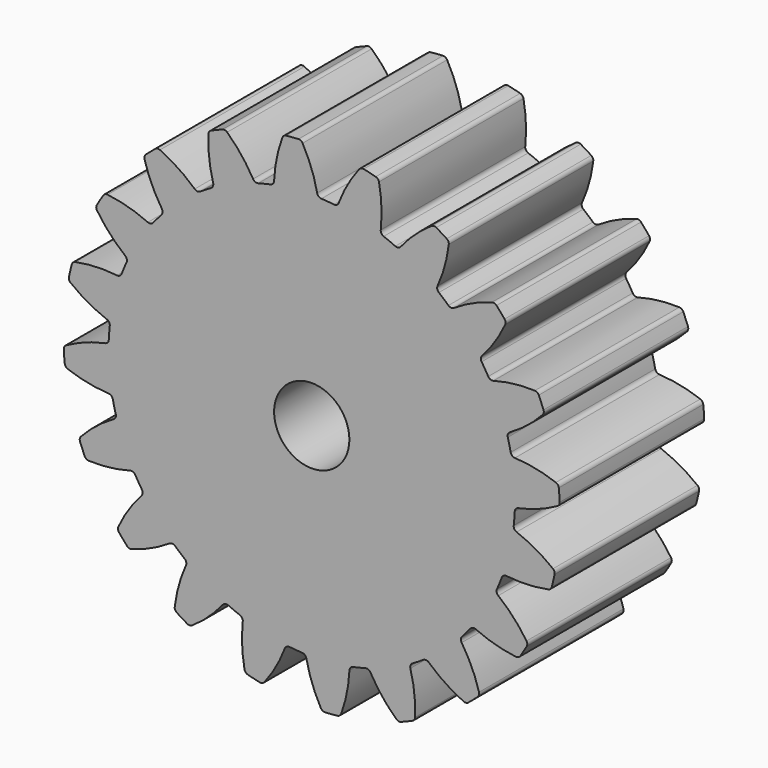
from build123d import *

# Parameters (mm, degrees)
F1_DEPTH = 4.8
F2_R     = 1
F3_DEPTH = 25


with BuildPart() as f1:
    # F0 (on Front) → F1 (new body)
    with BuildSketch(Plane.XZ):
        with BuildLine():
            ThreePointArc((0.144161, 5.489757), (-0.009039, 6.024555), (-0.242805, 6.529365))
            ThreePointArc((-0.242805, 6.529365), (-0.289621, 6.57581), (-0.353909, 6.590504))
            ThreePointArc((-0.353909, 6.590504), (-0.51783, 6.579654), (-0.68143, 6.564728))
            ThreePointArc((-0.68143, 6.564728), (-0.742628, 6.540158), (-0.781602, 6.486961))
            ThreePointArc((-0.781602, 6.486961), (-0.933521, 5.951797), (-1.001174, 5.399617))
            ThreePointArc((-1.001174, 5.399617), (-1.029694, 5.327161), (-1.096684, 5.287465))
            ThreePointArc((-1.096684, 5.287465), (-1.260605, 5.250798), (-1.423306, 5.20905))
            ThreePointArc((-1.423306, 5.20905), (-2.066491, 4.988949), (-2.676925, 4.689784))
            ThreePointArc((-2.676925, 4.689784), (-2.821492, 4.604257), (-2.96333, 4.514275))
            ThreePointArc((-2.96333, 4.514275), (-3.507019, 4.106192), (-3.99513, 3.633034))
            ThreePointArc((-3.99513, 3.633034), (-4.106192, 3.507019), (-4.213282, 3.377611))
            ThreePointArc((-4.213282, 3.377611), (-4.604257, 2.821492), (-4.922264, 2.220658))
            ThreePointArc((-4.922264, 2.220658), (-4.988949, 2.066491), (-5.050808, 1.910324))
            ThreePointArc((-5.050808, 1.910324), (-5.250798, 1.260605), (-5.367572, 0.590908))
            ThreePointArc((-5.367572, 0.590908), (-5.383354, 0.423679), (-5.393927, 0.25604))
            ThreePointArc((-5.393927, 0.25604), (-5.383354, -0.423679), (-5.287465, -1.096684))
            ThreePointArc((-5.287465, -1.096684), (-5.250798, -1.260605), (-5.20905, -1.423306))
            ThreePointArc((-5.20905, -1.423306), (-4.988949, -2.066491), (-4.689784, -2.676925))
            ThreePointArc((-4.689784, -2.676925), (-4.604257, -2.821492), (-4.514275, -2.96333))
            ThreePointArc((-4.514275, -2.96333), (-4.106192, -3.507019), (-3.633034, -3.99513))
            ThreePointArc((-3.633034, -3.99513), (-3.507019, -4.106192), (-3.377611, -4.213282))
            ThreePointArc((-3.377611, -4.213282), (-2.821492, -4.604257), (-2.220658, -4.922264))
            ThreePointArc((-2.220658, -4.922264), (-2.066491, -4.988949), (-1.910324, -5.050808))
            ThreePointArc((-1.910324, -5.050808), (-1.260605, -5.250798), (-0.590908, -5.367572))
            ThreePointArc((-0.590908, -5.367572), (-0.423679, -5.383354), (-0.25604, -5.393927))
            ThreePointArc((-0.25604, -5.393927), (0.423679, -5.383354), (1.096684, -5.287465))
            ThreePointArc((1.096684, -5.287465), (1.260605, -5.250798), (1.423306, -5.20905))
            ThreePointArc((1.423306, -5.20905), (2.066491, -4.988949), (2.676925, -4.689784))
            ThreePointArc((2.676925, -4.689784), (2.821492, -4.604257), (2.96333, -4.514275))
            ThreePointArc((2.96333, -4.514275), (3.507019, -4.106192), (3.99513, -3.633034))
            ThreePointArc((3.99513, -3.633034), (4.106192, -3.507019), (4.213282, -3.377611))
            ThreePointArc((4.213282, -3.377611), (4.604257, -2.821492), (4.922264, -2.220658))
            ThreePointArc((4.922264, -2.220658), (4.988949, -2.066491), (5.050808, -1.910324))
            ThreePointArc((5.050808, -1.910324), (5.250798, -1.260605), (5.367572, -0.590908))
            ThreePointArc((5.367572, -0.590908), (5.383354, -0.423679), (5.393927, -0.25604))
            ThreePointArc((5.393927, -0.25604), (5.383354, 0.423679), (5.287465, 1.096684))
            ThreePointArc((5.287465, 1.096684), (5.250798, 1.260605), (5.20905, 1.423306))
            ThreePointArc((5.20905, 1.423306), (4.988949, 2.066491), (4.689784, 2.676925))
            ThreePointArc((4.689784, 2.676925), (4.604257, 2.821492), (4.514275, 2.96333))
            ThreePointArc((4.514275, 2.96333), (4.106192, 3.507019), (3.633034, 3.99513))
            ThreePointArc((3.633034, 3.99513), (3.507019, 4.106192), (3.377611, 4.213282))
            ThreePointArc((3.377611, 4.213282), (2.821492, 4.604257), (2.220658, 4.922264))
            ThreePointArc((2.220658, 4.922264), (2.066491, 4.988949), (1.910324, 5.050808))
            ThreePointArc((1.910324, 5.050808), (1.260605, 5.250798), (0.590908, 5.367572))
            ThreePointArc((0.590908, 5.367572), (0.423679, 5.383354), (0.25604, 5.393927))
            ThreePointArc((0.25604, 5.393927), (0.183666, 5.422654), (0.144161, 5.489757))
        make_face()
        with BuildLine():
            ThreePointArc((0.716401, 5.444721), (0.666886, 5.384624), (0.590908, 5.367572))
            ThreePointArc((0.590908, 5.367572), (1.260605, 5.250798), (1.910324, 5.050808))
            ThreePointArc((1.910324, 5.050808), (1.850369, 5.100495), (1.833534, 5.176521))
            ThreePointArc((1.833534, 5.176521), (1.853094, 5.732486), (1.786764, 6.284826))
            ThreePointArc((1.786764, 6.284826), (1.756591, 6.343465), (1.69999, 6.377306))
            ThreePointArc((1.69999, 6.377306), (1.540739, 6.417641), (1.380534, 6.454001))
            ThreePointArc((1.380534, 6.454001), (1.314739, 6.449544), (1.261233, 6.410995))
            ThreePointArc((1.261233, 6.410995), (0.951375, 5.948969), (0.716401, 5.444721))
        make_face()
        with BuildLine():
            ThreePointArc((2.363849, 4.956857), (2.298186, 4.915003), (2.220658, 4.922264))
            ThreePointArc((2.220658, 4.922264), (2.821492, 4.604257), (3.377611, 4.213282))
            ThreePointArc((3.377611, 4.213282), (3.335945, 4.279064), (3.343427, 4.356571))
            ThreePointArc((3.343427, 4.356571), (3.533832, 4.87928), (3.641431, 5.425084))
            ThreePointArc((3.641431, 5.425084), (3.630856, 5.490177), (3.587483, 5.539853))
            ThreePointArc((3.587483, 5.539853), (3.448491, 5.627425), (3.307362, 5.711511))
            ThreePointArc((3.307362, 5.711511), (3.24341, 5.727605), (3.18061, 5.707476))
            ThreePointArc((3.18061, 5.707476), (2.743144, 5.363815), (2.363849, 4.956857))
        make_face()
        with BuildLine():
            ThreePointArc((-2.676925, 4.689784), (-2.066491, 4.988949), (-1.423306, 5.20905))
            ThreePointArc((-1.423306, 5.20905), (-1.501016, 5.214007), (-1.559323, 5.265618))
            ThreePointArc((-1.559323, 5.265618), (-1.870286, 5.7269), (-2.248606, 6.134764))
            ThreePointArc((-2.248606, 6.134764), (-2.307483, 6.164469), (-2.373166, 6.158578))
            ThreePointArc((-2.373166, 6.158578), (-2.525711, 6.097605), (-2.676691, 6.032854))
            ThreePointArc((-2.676691, 6.032854), (-2.727301, 5.990575), (-2.747929, 5.927938))
            ThreePointArc((-2.747929, 5.927938), (-2.727037, 5.372022), (-2.620746, 4.825962))
            ThreePointArc((-2.620746, 4.825962), (-2.625481, 4.748238), (-2.676925, 4.689784))
        make_face()
        with BuildLine():
            ThreePointArc((3.779907, 3.983782), (3.704525, 3.964267), (3.633034, 3.99513))
            ThreePointArc((3.633034, 3.99513), (4.106192, 3.507019), (4.514275, 2.96333))
            ThreePointArc((4.514275, 2.96333), (4.494976, 3.038768), (4.526043, 3.110169))
            ThreePointArc((4.526043, 3.110169), (4.868655, 3.548457), (5.13965, 4.034298))
            ThreePointArc((5.13965, 4.034298), (5.149707, 4.099473), (5.123807, 4.16012))
            ThreePointArc((5.123807, 4.16012), (5.018679, 4.286357), (4.910442, 4.409939))
            ThreePointArc((4.910442, 4.409939), (4.854593, 4.445007), (4.788647, 4.445269))
            ThreePointArc((4.788647, 4.445269), (4.266395, 4.253613), (3.779907, 3.983782))
        make_face()
        with BuildLine():
            ThreePointArc((-3.99513, 3.633034), (-3.507019, 4.106192), (-2.96333, 4.514275))
            ThreePointArc((-2.96333, 4.514275), (-3.038768, 4.494976), (-3.110169, 4.526043))
            ThreePointArc((-3.110169, 4.526043), (-3.548457, 4.868655), (-4.034298, 5.13965))
            ThreePointArc((-4.034298, 5.13965), (-4.099473, 5.149707), (-4.16012, 5.123807))
            ThreePointArc((-4.16012, 5.123807), (-4.286357, 5.018679), (-4.409939, 4.910442))
            ThreePointArc((-4.409939, 4.910442), (-4.445007, 4.854593), (-4.445269, 4.788647))
            ThreePointArc((-4.445269, 4.788647), (-4.253613, 4.266395), (-3.983782, 3.779907))
            ThreePointArc((-3.983782, 3.779907), (-3.964267, 3.704525), (-3.99513, 3.633034))
        make_face()
        with BuildLine():
            ThreePointArc((4.825962, 2.620746), (4.748238, 2.625481), (4.689784, 2.676925))
            ThreePointArc((4.689784, 2.676925), (4.988949, 2.066491), (5.20905, 1.423306))
            ThreePointArc((5.20905, 1.423306), (5.214007, 1.501016), (5.265618, 1.559323))
            ThreePointArc((5.265618, 1.559323), (5.7269, 1.870286), (6.134764, 2.248606))
            ThreePointArc((6.134764, 2.248606), (6.164469, 2.307483), (6.158578, 2.373166))
            ThreePointArc((6.158578, 2.373166), (6.097605, 2.525711), (6.032854, 2.676691))
            ThreePointArc((6.032854, 2.676691), (5.990575, 2.727301), (5.927938, 2.747929))
            ThreePointArc((5.927938, 2.747929), (5.372022, 2.727037), (4.825962, 2.620746))
        make_face()
        with BuildLine():
            ThreePointArc((-4.922264, 2.220658), (-4.604257, 2.821492), (-4.213282, 3.377611))
            ThreePointArc((-4.213282, 3.377611), (-4.279064, 3.335945), (-4.356571, 3.343427))
            ThreePointArc((-4.356571, 3.343427), (-4.87928, 3.533832), (-5.425084, 3.641431))
            ThreePointArc((-5.425084, 3.641431), (-5.490177, 3.630856), (-5.539853, 3.587483))
            ThreePointArc((-5.539853, 3.587483), (-5.627425, 3.448491), (-5.711511, 3.307362))
            ThreePointArc((-5.711511, 3.307362), (-5.727605, 3.24341), (-5.707476, 3.18061))
            ThreePointArc((-5.707476, 3.18061), (-5.363815, 2.743144), (-4.956857, 2.363849))
            ThreePointArc((-4.956857, 2.363849), (-4.915003, 2.298186), (-4.922264, 2.220658))
        make_face()
        with BuildLine():
            ThreePointArc((5.399617, 1.001174), (5.327161, 1.029694), (5.287465, 1.096684))
            ThreePointArc((5.287465, 1.096684), (5.383354, 0.423679), (5.393927, -0.25604))
            ThreePointArc((5.393927, -0.25604), (5.422654, -0.183666), (5.489757, -0.144161))
            ThreePointArc((5.489757, -0.144161), (6.024555, 0.009039), (6.529365, 0.242805))
            ThreePointArc((6.529365, 0.242805), (6.57581, 0.289621), (6.590504, 0.353909))
            ThreePointArc((6.590504, 0.353909), (6.579654, 0.51783), (6.564728, 0.68143))
            ThreePointArc((6.564728, 0.68143), (6.540158, 0.742628), (6.486961, 0.781602))
            ThreePointArc((6.486961, 0.781602), (5.951797, 0.933521), (5.399617, 1.001174))
        make_face()
        with BuildLine():
            ThreePointArc((-5.367572, 0.590908), (-5.250798, 1.260605), (-5.050808, 1.910324))
            ThreePointArc((-5.050808, 1.910324), (-5.100495, 1.850369), (-5.176521, 1.833534))
            ThreePointArc((-5.176521, 1.833534), (-5.732486, 1.853094), (-6.284826, 1.786764))
            ThreePointArc((-6.284826, 1.786764), (-6.343465, 1.756591), (-6.377306, 1.69999))
            ThreePointArc((-6.377306, 1.69999), (-6.417641, 1.540739), (-6.454001, 1.380534))
            ThreePointArc((-6.454001, 1.380534), (-6.449544, 1.314739), (-6.410995, 1.261233))
            ThreePointArc((-6.410995, 1.261233), (-5.948969, 0.951375), (-5.444721, 0.716401))
            ThreePointArc((-5.444721, 0.716401), (-5.384624, 0.666886), (-5.367572, 0.590908))
        make_face()
        with BuildLine():
            ThreePointArc((5.444721, -0.716401), (5.384624, -0.666886), (5.367572, -0.590908))
            ThreePointArc((5.367572, -0.590908), (5.250798, -1.260605), (5.050808, -1.910324))
            ThreePointArc((5.050808, -1.910324), (5.100495, -1.850369), (5.176521, -1.833534))
            ThreePointArc((5.176521, -1.833534), (5.732486, -1.853094), (6.284826, -1.786764))
            ThreePointArc((6.284826, -1.786764), (6.343465, -1.756591), (6.377306, -1.69999))
            ThreePointArc((6.377306, -1.69999), (6.417641, -1.540739), (6.454001, -1.380534))
            ThreePointArc((6.454001, -1.380534), (6.449544, -1.314739), (6.410995, -1.261233))
            ThreePointArc((6.410995, -1.261233), (5.948969, -0.951375), (5.444721, -0.716401))
        make_face()
        with BuildLine():
            ThreePointArc((-5.287465, -1.096684), (-5.383354, -0.423679), (-5.393927, 0.25604))
            ThreePointArc((-5.393927, 0.25604), (-5.422654, 0.183666), (-5.489757, 0.144161))
            ThreePointArc((-5.489757, 0.144161), (-6.024555, -0.009039), (-6.529365, -0.242805))
            ThreePointArc((-6.529365, -0.242805), (-6.57581, -0.289621), (-6.590504, -0.353909))
            ThreePointArc((-6.590504, -0.353909), (-6.579654, -0.51783), (-6.564728, -0.68143))
            ThreePointArc((-6.564728, -0.68143), (-6.540158, -0.742628), (-6.486961, -0.781602))
            ThreePointArc((-6.486961, -0.781602), (-5.951797, -0.933521), (-5.399617, -1.001174))
            ThreePointArc((-5.399617, -1.001174), (-5.327161, -1.029694), (-5.287465, -1.096684))
        make_face()
        with BuildLine():
            ThreePointArc((4.956857, -2.363849), (4.915003, -2.298186), (4.922264, -2.220658))
            ThreePointArc((4.922264, -2.220658), (4.604257, -2.821492), (4.213282, -3.377611))
            ThreePointArc((4.213282, -3.377611), (4.279064, -3.335945), (4.356571, -3.343427))
            ThreePointArc((4.356571, -3.343427), (4.87928, -3.533832), (5.425084, -3.641431))
            ThreePointArc((5.425084, -3.641431), (5.490177, -3.630856), (5.539853, -3.587483))
            ThreePointArc((5.539853, -3.587483), (5.627425, -3.448491), (5.711511, -3.307362))
            ThreePointArc((5.711511, -3.307362), (5.727605, -3.24341), (5.707476, -3.18061))
            ThreePointArc((5.707476, -3.18061), (5.363815, -2.743144), (4.956857, -2.363849))
        make_face()
        with BuildLine():
            ThreePointArc((-4.689784, -2.676925), (-4.988949, -2.066491), (-5.20905, -1.423306))
            ThreePointArc((-5.20905, -1.423306), (-5.214007, -1.501016), (-5.265618, -1.559323))
            ThreePointArc((-5.265618, -1.559323), (-5.7269, -1.870286), (-6.134764, -2.248606))
            ThreePointArc((-6.134764, -2.248606), (-6.164469, -2.307483), (-6.158578, -2.373166))
            ThreePointArc((-6.158578, -2.373166), (-6.097605, -2.525711), (-6.032854, -2.676691))
            ThreePointArc((-6.032854, -2.676691), (-5.990575, -2.727301), (-5.927938, -2.747929))
            ThreePointArc((-5.927938, -2.747929), (-5.372022, -2.727037), (-4.825962, -2.620746))
            ThreePointArc((-4.825962, -2.620746), (-4.748238, -2.625481), (-4.689784, -2.676925))
        make_face()
        with BuildLine():
            ThreePointArc((3.983782, -3.779907), (3.964267, -3.704525), (3.99513, -3.633034))
            ThreePointArc((3.99513, -3.633034), (3.507019, -4.106192), (2.96333, -4.514275))
            ThreePointArc((2.96333, -4.514275), (3.038768, -4.494976), (3.110169, -4.526043))
            ThreePointArc((3.110169, -4.526043), (3.548457, -4.868655), (4.034298, -5.13965))
            ThreePointArc((4.034298, -5.13965), (4.099473, -5.149707), (4.16012, -5.123807))
            ThreePointArc((4.16012, -5.123807), (4.286357, -5.018679), (4.409939, -4.910442))
            ThreePointArc((4.409939, -4.910442), (4.445007, -4.854593), (4.445269, -4.788647))
            ThreePointArc((4.445269, -4.788647), (4.253613, -4.266395), (3.983782, -3.779907))
        make_face()
        with BuildLine():
            ThreePointArc((-3.633034, -3.99513), (-4.106192, -3.507019), (-4.514275, -2.96333))
            ThreePointArc((-4.514275, -2.96333), (-4.494976, -3.038768), (-4.526043, -3.110169))
            ThreePointArc((-4.526043, -3.110169), (-4.868655, -3.548457), (-5.13965, -4.034298))
            ThreePointArc((-5.13965, -4.034298), (-5.149707, -4.099473), (-5.123807, -4.16012))
            ThreePointArc((-5.123807, -4.16012), (-5.018679, -4.286357), (-4.910442, -4.409939))
            ThreePointArc((-4.910442, -4.409939), (-4.854593, -4.445007), (-4.788647, -4.445269))
            ThreePointArc((-4.788647, -4.445269), (-4.266395, -4.253613), (-3.779907, -3.983782))
            ThreePointArc((-3.779907, -3.983782), (-3.704525, -3.964267), (-3.633034, -3.99513))
        make_face()
        with BuildLine():
            ThreePointArc((2.620746, -4.825962), (2.625481, -4.748238), (2.676925, -4.689784))
            ThreePointArc((2.676925, -4.689784), (2.066491, -4.988949), (1.423306, -5.20905))
            ThreePointArc((1.423306, -5.20905), (1.501016, -5.214007), (1.559323, -5.265618))
            ThreePointArc((1.559323, -5.265618), (1.870286, -5.7269), (2.248606, -6.134764))
            ThreePointArc((2.248606, -6.134764), (2.307483, -6.164469), (2.373166, -6.158578))
            ThreePointArc((2.373166, -6.158578), (2.525711, -6.097605), (2.676691, -6.032854))
            ThreePointArc((2.676691, -6.032854), (2.727301, -5.990575), (2.747929, -5.927938))
            ThreePointArc((2.747929, -5.927938), (2.727037, -5.372022), (2.620746, -4.825962))
        make_face()
        with BuildLine():
            ThreePointArc((-2.220658, -4.922264), (-2.821492, -4.604257), (-3.377611, -4.213282))
            ThreePointArc((-3.377611, -4.213282), (-3.335945, -4.279064), (-3.343427, -4.356571))
            ThreePointArc((-3.343427, -4.356571), (-3.533832, -4.87928), (-3.641431, -5.425084))
            ThreePointArc((-3.641431, -5.425084), (-3.630856, -5.490177), (-3.587483, -5.539853))
            ThreePointArc((-3.587483, -5.539853), (-3.448491, -5.627425), (-3.307362, -5.711511))
            ThreePointArc((-3.307362, -5.711511), (-3.24341, -5.727605), (-3.18061, -5.707476))
            ThreePointArc((-3.18061, -5.707476), (-2.743144, -5.363815), (-2.363849, -4.956857))
            ThreePointArc((-2.363849, -4.956857), (-2.298186, -4.915003), (-2.220658, -4.922264))
        make_face()
        with BuildLine():
            ThreePointArc((1.001174, -5.399617), (1.029694, -5.327161), (1.096684, -5.287465))
            ThreePointArc((1.096684, -5.287465), (0.423679, -5.383354), (-0.25604, -5.393927))
            ThreePointArc((-0.25604, -5.393927), (-0.183666, -5.422654), (-0.144161, -5.489757))
            ThreePointArc((-0.144161, -5.489757), (0.009039, -6.024555), (0.242805, -6.529365))
            ThreePointArc((0.242805, -6.529365), (0.289621, -6.57581), (0.353909, -6.590504))
            ThreePointArc((0.353909, -6.590504), (0.51783, -6.579654), (0.68143, -6.564728))
            ThreePointArc((0.68143, -6.564728), (0.742628, -6.540158), (0.781602, -6.486961))
            ThreePointArc((0.781602, -6.486961), (0.933521, -5.951797), (1.001174, -5.399617))
        make_face()
        with BuildLine():
            ThreePointArc((-0.590908, -5.367572), (-1.260605, -5.250798), (-1.910324, -5.050808))
            ThreePointArc((-1.910324, -5.050808), (-1.850369, -5.100495), (-1.833534, -5.176521))
            ThreePointArc((-1.833534, -5.176521), (-1.853094, -5.732486), (-1.786764, -6.284826))
            ThreePointArc((-1.786764, -6.284826), (-1.756591, -6.343465), (-1.69999, -6.377306))
            ThreePointArc((-1.69999, -6.377306), (-1.540739, -6.417641), (-1.380534, -6.454001))
            ThreePointArc((-1.380534, -6.454001), (-1.314739, -6.449544), (-1.261233, -6.410995))
            ThreePointArc((-1.261233, -6.410995), (-0.951375, -5.948969), (-0.716401, -5.444721))
            ThreePointArc((-0.716401, -5.444721), (-0.666886, -5.384624), (-0.590908, -5.367572))
        make_face()
    extrude(amount=F1_DEPTH)

    # F2 (on face) → F3 (cut)
    with BuildSketch(Plane.XZ.offset(4.8)):
        Circle(F2_R)
    extrude(amount=-F3_DEPTH, mode=Mode.SUBTRACT)


solid = f1.part
